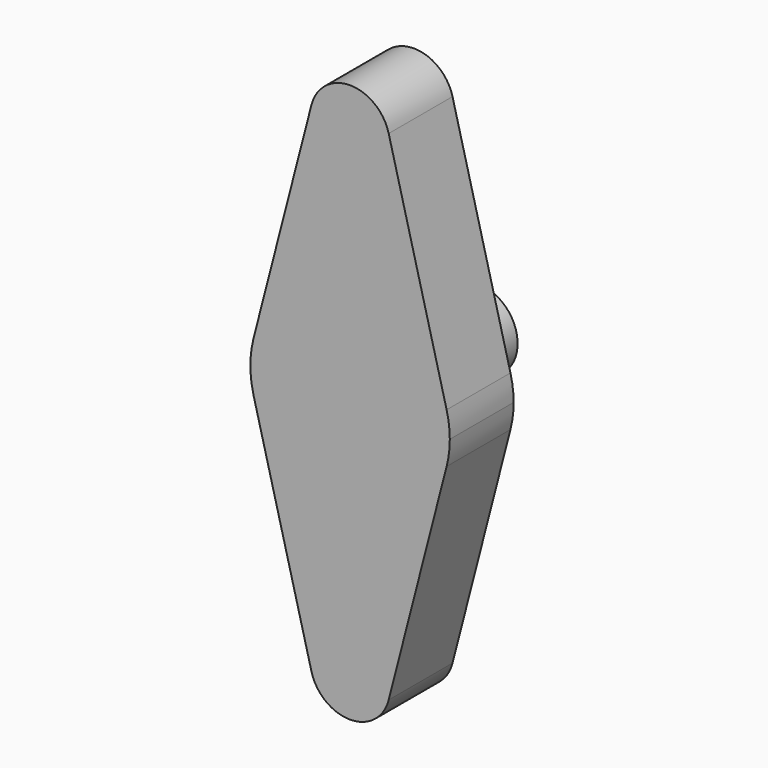
from build123d import *

# Parameters (mm, degrees)
F1_DEPTH = 20
F2_R     = 10
F3_DEPTH = 20


with BuildPart() as f1:
    # F0 (on Front) → F1 (new body)
    with BuildSketch(Plane.XZ):
        with BuildLine():
            ThreePointArc((24.206146, -6.25), (24.800742, -3.150107), (25, 0))
            ThreePointArc((25, 0), (24.800742, 3.150107), (24.206146, 6.25))
            ThreePointArc((24.206146, 6.25), (0, 25), (-24.206146, 6.25))
            ThreePointArc((-24.206146, 6.25), (-25, 0), (-24.206146, -6.25))
            ThreePointArc((-24.206146, -6.25), (0, -25), (24.206146, -6.25))
        make_face()
        with BuildLine():
            ThreePointArc((-24.206146, 6.25), (0, 25), (24.206146, 6.25))
            Line((24.206146, 6.25), (9.682458, 62.5))
            ThreePointArc((9.682458, 62.5), (9.920297, 61.260043), (10, 60))
            ThreePointArc((10, 60), (-1.260043, 50.079703), (-9.682458, 62.5))
            Line((-9.682458, 62.5), (-24.206146, 6.25))
        make_face()
        with BuildLine():
            Line((9.682458, -62.5), (24.206146, -6.25))
            ThreePointArc((24.206146, -6.25), (0, -25), (-24.206146, -6.25))
            Line((-24.206146, -6.25), (-9.682458, -62.5))
            ThreePointArc((-9.682458, -62.5), (-1.260043, -50.079703), (10, -60))
            ThreePointArc((10, -60), (9.920297, -61.260043), (9.682458, -62.5))
        make_face()
        with BuildLine():
            ThreePointArc((10, 60), (9.920297, 61.260043), (9.682458, 62.5))
            ThreePointArc((9.682458, 62.5), (0, 70), (-9.682458, 62.5))
            ThreePointArc((-9.682458, 62.5), (-1.260043, 50.079703), (10, 60))
        make_face()
        with BuildLine():
            ThreePointArc((-9.682458, -62.5), (0, -70), (9.682458, -62.5))
            ThreePointArc((9.682458, -62.5), (9.920297, -61.260043), (10, -60))
            ThreePointArc((10, -60), (-1.260043, -50.079703), (-9.682458, -62.5))
        make_face()
    extrude(amount=F1_DEPTH)

    # F2 (on face) → F3 (join)
    with BuildSketch(Plane(origin=(0, 0, 0), x_dir=(-1, 0, 0), z_dir=(0, 1, 0))):
        Circle(F2_R)
    extrude(amount=F3_DEPTH)


solid = f1.part
